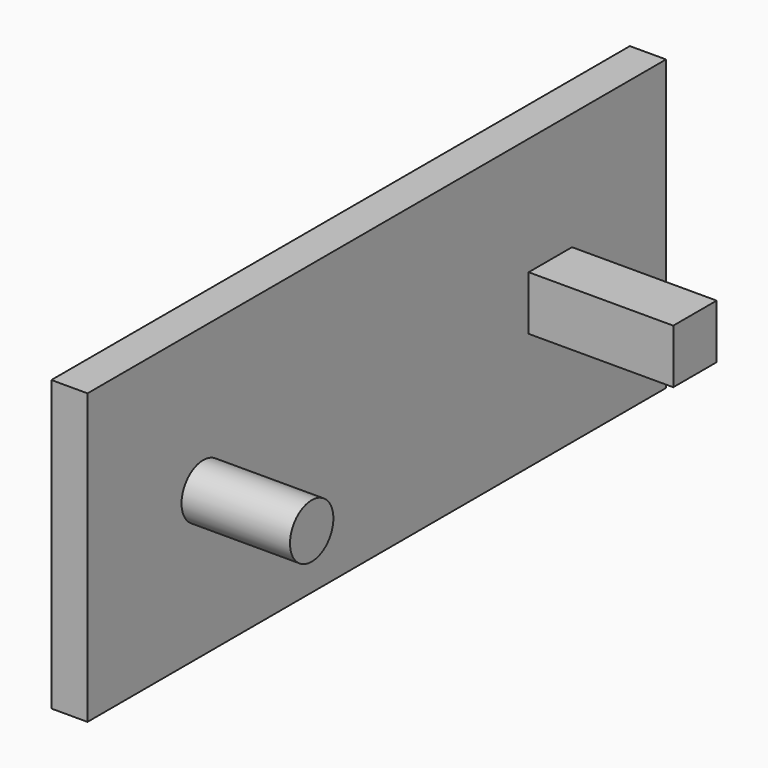
from build123d import *

# Parameters (mm, degrees)
F0_W      = 127
F0_H      = 50.800004
F1_DEPTH  = 6.35
F2_R      = 4.7625
F2_W      = 9.525
F2_H      = 9.525
F3_DEPTH  = 19.05
F3_FACE_W = 9.525
F3_FACE_H = 9.525
F4_DEPTH  = 6.35


with BuildPart() as f1:
    # F0 (on Right) → F1 (new body)
    with BuildSketch(Plane.YZ):
        Rectangle(F0_W, F0_H)
    extrude(amount=F1_DEPTH)

    # F2 (on face) → F3 (join)
    with BuildSketch(Plane.YZ.offset(6.35)):
        with Locations((-38.1, 0)):
            Circle(F2_R)
        with Locations((38.1, 0)):
            Rectangle(F2_W, F2_H)
    extrude(amount=F3_DEPTH)

    # F3_face (on face) → F4 (join)
    with BuildSketch(Plane(origin=(25.4, 38.1, 0), x_dir=(0, 1, 0), z_dir=(1, 0, 0))):
        Rectangle(F3_FACE_W, F3_FACE_H)
    extrude(amount=F4_DEPTH)


solid = f1.part
